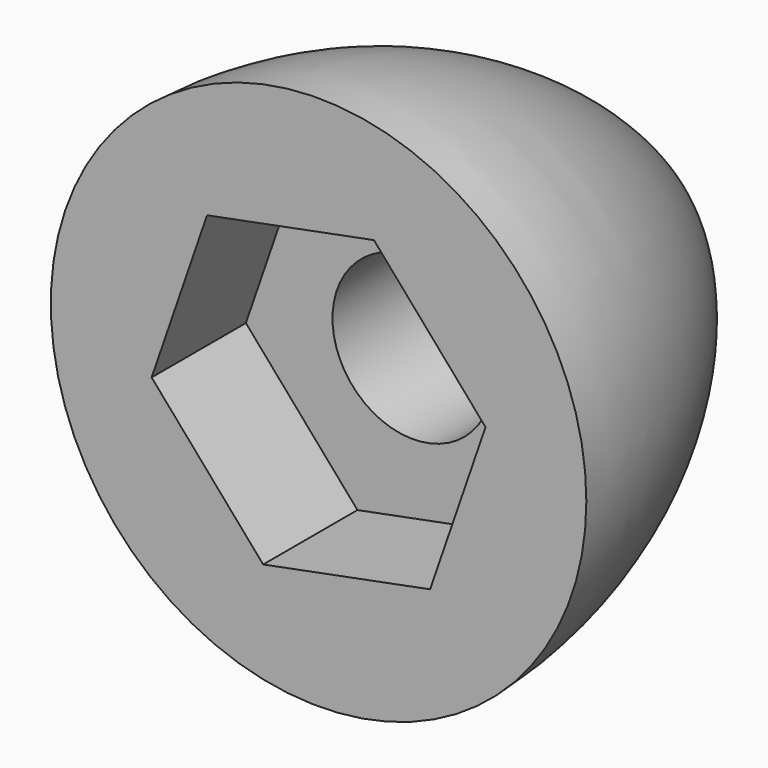
from build123d import *

# Parameters (mm, degrees)
F2_R     = 1.5
F3_DEPTH = 25
F4_DEPTH = 2.2


with BuildPart() as f1:
    # F0 (on Top) → F1 (revolve)
    with BuildSketch(Plane.XY):
        with BuildLine():
            Line((0, 8.115384), (0, 0))
            Line((0, 0), (5, 0))
            ThreePointArc((5, 0), (3.571673, 4.717964), (0, 8.115384))
        make_face()
    revolve(axis=Axis((0, 4.057692, 0), (0, 1, 0)))

    # F2 (on face) → F3 (cut)
    with BuildSketch(Plane.XZ):
        Circle(F2_R)
    extrude(amount=-F3_DEPTH, mode=Mode.SUBTRACT)

    # F2 (on face) → F4 (cut)
    with BuildSketch(Plane.XZ):
        Polygon((3.117215, 0.605232), (1.034461, 3.002203), (-2.082754, 2.396971), (-3.117215, -0.605232), (-1.034461, -3.002203), (2.082754, -2.396971), align=None)
        Circle(F2_R, mode=Mode.SUBTRACT)
    extrude(amount=-F4_DEPTH, mode=Mode.SUBTRACT)


solid = f1.part
